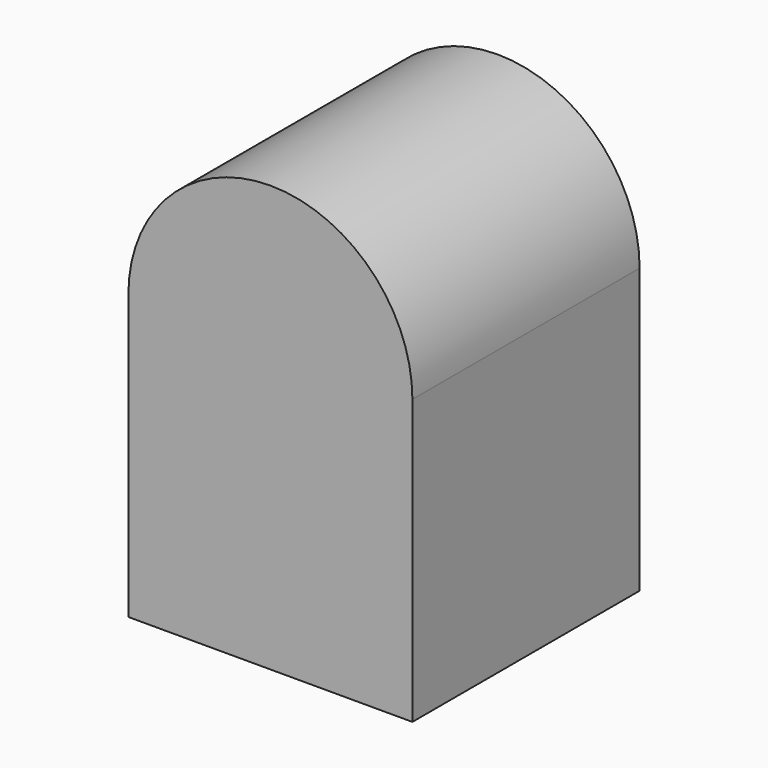
from build123d import *

# Parameters (mm, degrees)
F1_DEPTH = 10
F4_D     = 5
F4_DEPTH = 5
F4_TIP   = 1.5021515476


with BuildPart() as f1:
    # F0 (on Front) → F1 (new body)
    with BuildSketch(Plane.XZ):
        with BuildLine():
            Line((-10, 0), (0, 0))
            Line((0, 0), (0, 10))
            ThreePointArc((0, 10), (-5, 5), (-10, 10))
            Line((-10, 10), (-10, 0))
        make_face()
        with BuildLine():
            Line((-10, 10), (0, 10))
            ThreePointArc((0, 10), (-5, 15), (-10, 10))
        make_face()
        with BuildLine():
            ThreePointArc((-10, 10), (-5, 5), (0, 10))
            Line((0, 10), (-10, 10))
        make_face()
    extrude(amount=F1_DEPTH)

    # F4
    with Locations(Plane(origin=(0, 0, 0), x_dir=(1, 0, 0), z_dir=(0, 0, -1))):
        with Locations((-5.0305076875, 4.9831778742)):
            Hole(F4_D / 2, depth=F4_DEPTH)
            with Locations((0, 0, -(F4_DEPTH + F4_TIP / 2))):  # 118° drill point
                Cone(0, F4_D / 2, F4_TIP, mode=Mode.SUBTRACT)


solid = f1.part
